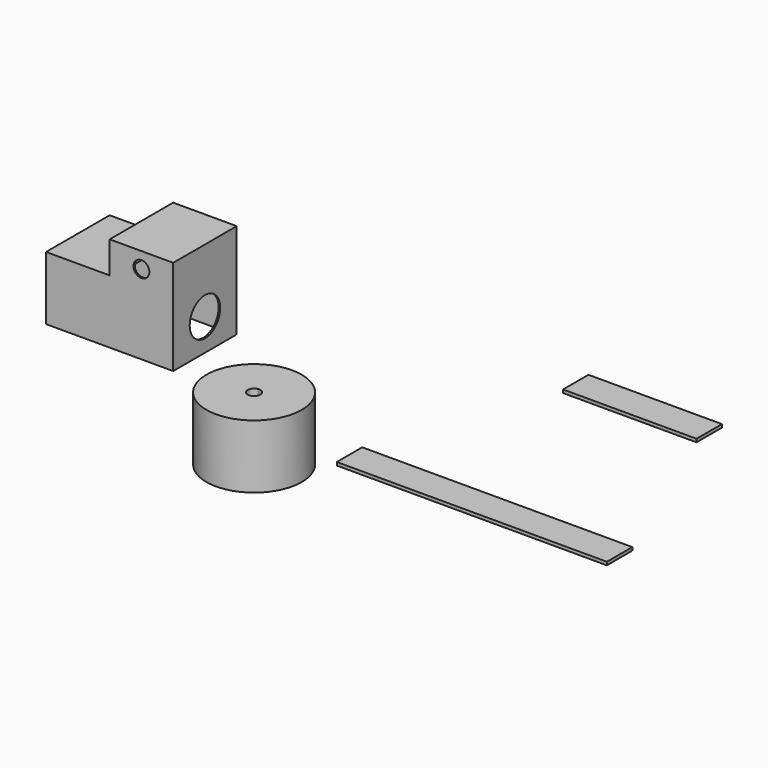
from build123d import *

# Parameters (mm, degrees)
F1_DEPTH  = 200
F2_W      = 850
F2_H      = 100
F3_DEPTH  = 10
F5_W      = 400
F5_H      = 250
F6_DEPTH  = 200
F7_W      = 200
F7_H      = 125
F8_DEPTH  = 100
F10_T     = -5
F9_R      = 60
F11_DEPTH = 1878.0857579241
F12_R     = 25
F13_DEPTH = 25
F14_W     = 420
F14_H     = 100
F15_DEPTH = 10


with BuildPart() as f1:
    # F0 (on Top) → F1 (new body)
    with BuildSketch(Plane.XY):
        with BuildLine():
            ThreePointArc((-20.875965144, 148.5402103112), (-98.4088543486, -113.2064370334), (150, 0))
            ThreePointArc((150, 0), (106.066017178, 106.066017178), (0, 150))
            Line((0, 150), (0, 20))
            ThreePointArc((0, 20), (14.1421356237, 14.1421356237), (20, 0))
            ThreePointArc((20, 0), (-13.1211805798, -15.0941916045), (-2.7834620192, 19.8053613748))
            Line((-2.7834620192, 19.8053613748), (-20.875965144, 148.5402103112))
        make_face()
        with BuildLine():
            Line((0, 20), (0, 150))
            ThreePointArc((0, 150), (-10.4634710616, 149.634607539), (-20.875965144, 148.5402103112))
            Line((-20.875965144, 148.5402103112), (-2.7834620192, 19.8053613748))
            ThreePointArc((-2.7834620192, 19.8053613748), (-1.3951294749, 19.9512810052), (0, 20))
        make_face()
    extrude(amount=F1_DEPTH)


with BuildPart() as f3:
    # F2 (on Top) → F3 (new body)
    with BuildSketch(Plane.XY):
        with Locations((587.4208122492, 172.323012268)):
            Rectangle(F2_W, F2_H)
    extrude(amount=F3_DEPTH)


with BuildPart() as f6:
    # F5 (on Top) → F6 (new body)
    with BuildSketch(Plane.XY):
        with Locations((-665.6639456749, 388.864159584)):
            Rectangle(F5_W, F5_H)
    extrude(amount=F6_DEPTH)

    # F7 (on face) → F8 (join)
    with BuildSketch(Plane.XY.offset(200)):
        with Locations((-565.6639456749, 326.364159584)):
            Rectangle(F7_W, F7_H)
        with Locations((-565.6639456749, 451.364159584)):
            Rectangle(F7_W, F7_H)
    extrude(amount=F8_DEPTH)

    # F10
    f10_openings = [f6.faces().sort_by_distance(p)[0] for p in [
        (-665.663946, 388.86416, 0),
    ]]
    offset(amount=F10_T, openings=f10_openings, kind=Kind.INTERSECTION)

    # F9 (on face) → F11 (cut, through all)
    with BuildSketch(Plane(origin=(-865.6639456749, 0, 0), x_dir=(0, -1, 0), z_dir=(-1, 0, 0))):
        with Locations((-388.864159584, 100)):
            Circle(F9_R)
    extrude(amount=-F11_DEPTH, mode=Mode.SUBTRACT)

    # F12 (on face) → F13 (cut)
    with BuildSketch(Plane.XZ.offset(-263.864159584)):
        with Locations((-565.6639456749, 250)):
            Circle(F12_R)
    extrude(amount=-F13_DEPTH, mode=Mode.SUBTRACT)


with BuildPart() as f15:
    # F14 (on Top) → F15 (new body)
    with BuildSketch(Plane.XY):
        with Locations((565.4901950922, 821.0257589817)):
            Rectangle(F14_W, F14_H)
    extrude(amount=F15_DEPTH)


solid = Compound([f1.part, f3.part, f6.part, f15.part])
